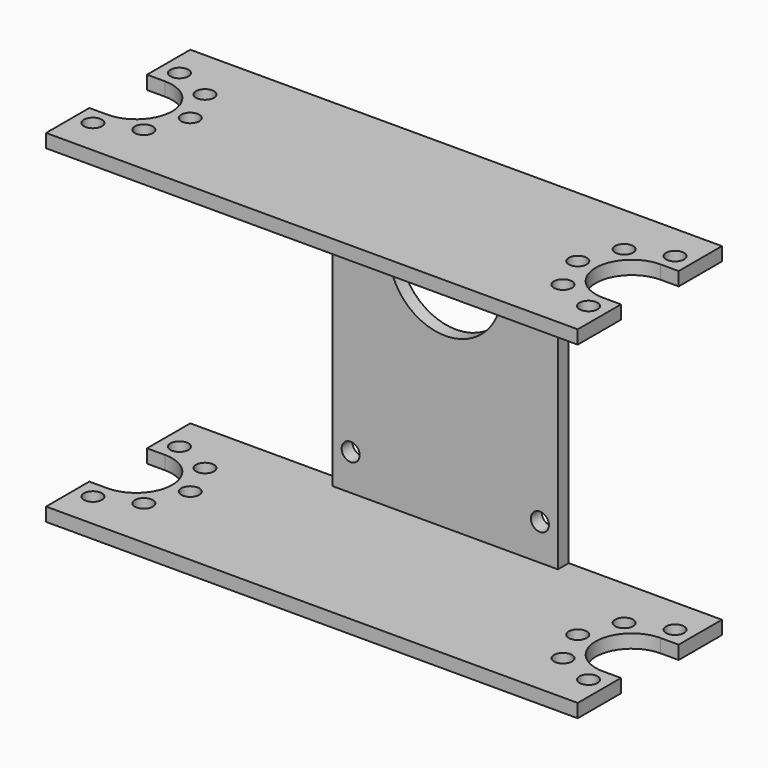
from build123d import *

# Parameters (mm, degrees)
F0_R     = 1
F1_DEPTH = 1.5
F2_W     = 25
F2_H     = 1.5
F3_DEPTH = 17.5
F6_R     = 1
F6_R_2   = 6.25
F7_DEPTH = 1.5


with BuildPart() as f1:
    # F0 (on Top) → F1 (new body)
    with BuildSketch(Plane.XY):
        with BuildLine():
            Line((-29.5, -10), (29.5, -10))
            Line((29.5, -10), (29.5, -4))
            Line((29.5, -4), (27.5, -4))
            ThreePointArc((27.5, -4), (23.5, 0), (27.5, 4))
            Line((27.5, 4), (29.5, 4))
            Line((29.5, 4), (29.5, 10))
            Line((29.5, 10), (-29.5, 10))
            Line((-29.5, 10), (-29.5, 4))
            Line((-29.5, 4), (-27.5, 4))
            ThreePointArc((-27.5, 4), (-23.5, 0), (-27.5, -4))
            Line((-27.5, -4), (-29.5, -4))
            Line((-29.5, -4), (-29.5, -10))
        make_face()
        with Locations((-27.5, -6)):
            Circle(F0_R, mode=Mode.SUBTRACT)
        with Locations((-23.257359, -4.242641)):
            Circle(F0_R, mode=Mode.SUBTRACT)
        with Locations((27.5, -6)):
            Circle(F0_R, mode=Mode.SUBTRACT)
        with Locations((23.257359, -4.242641)):
            Circle(F0_R, mode=Mode.SUBTRACT)
        with Locations((-21.5, 0)):
            Circle(F0_R, mode=Mode.SUBTRACT)
        with Locations((-23.257359, 4.242641)):
            Circle(F0_R, mode=Mode.SUBTRACT)
        with Locations((-27.5, 6)):
            Circle(F0_R, mode=Mode.SUBTRACT)
        with Locations((21.5, 0)):
            Circle(F0_R, mode=Mode.SUBTRACT)
        with Locations((23.257359, 4.242641)):
            Circle(F0_R, mode=Mode.SUBTRACT)
        with Locations((27.5, 6)):
            Circle(F0_R, mode=Mode.SUBTRACT)
    extrude(amount=F1_DEPTH)

    # F2 (on face) → F3 (join)
    with BuildSketch(Plane(origin=(0, 0, 0), x_dir=(1, 0, 0), z_dir=(0, 0, -1))):
        with Locations((0, -9.25)):
            Rectangle(F2_W, F2_H)
    extrude(amount=F3_DEPTH)

    # F5: F1 across plane


with BuildPart() as f1_1:
    add(f1.part)
    add(f1.part.mirror(Plane.XY.offset(-17.5)))

    # F6 (on face) → F7 (cut, through all)
    with BuildSketch(Plane(origin=(0, 10, 0), x_dir=(-1, 0, 0), z_dir=(0, 1, 0))):
        with Locations((10.5, -10)):
            Circle(F6_R)
        with Locations((10.5, -31)):
            Circle(F6_R)
        with Locations((0, -10)):
            Circle(F6_R_2)
        with Locations((-10.5, -10)):
            Circle(F6_R)
        with Locations((-10.5, -31)):
            Circle(F6_R)
    extrude(amount=-F7_DEPTH, mode=Mode.SUBTRACT)


solid = f1_1.part
